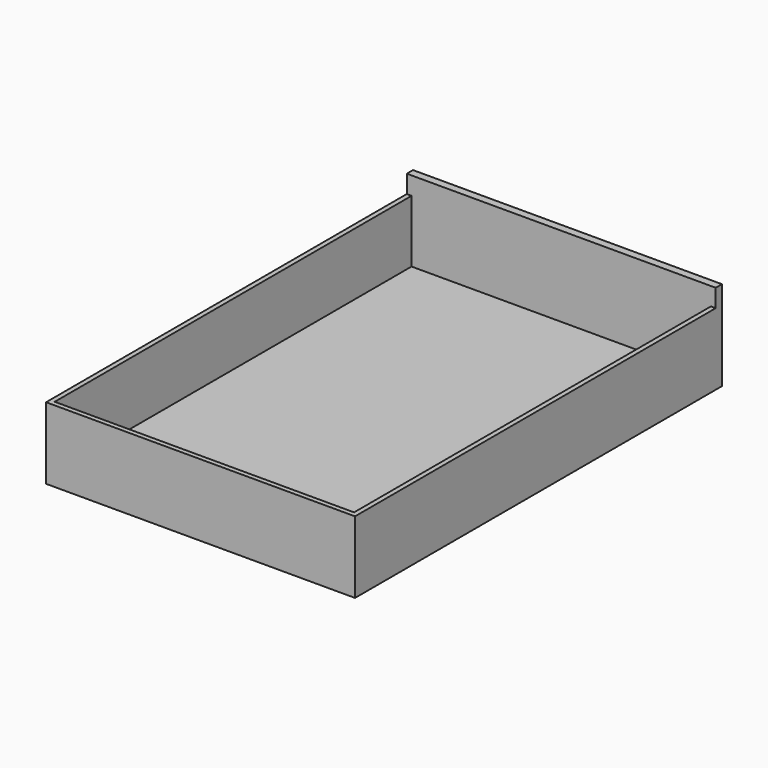
from build123d import *

# Parameters (mm, degrees)
F0_W     = 103.2
F0_H     = 153.2
F0_W_2   = 100
F0_H_2   = 150
F1_DEPTH = 24
F2_W     = 100
F2_H     = 150
F3_DEPTH = 3.2
F4_W     = 103.2
F4_H     = 2.6
F5_DEPTH = 30


with BuildPart() as f1:
    # F0 (on Top) → F1 (new body)
    with BuildSketch(Plane.XY):
        Rectangle(F0_W, F0_H)
        Rectangle(F0_W_2, F0_H_2, mode=Mode.SUBTRACT)
    extrude(amount=F1_DEPTH)

    # F2 (on Top) → F3 (join)
    with BuildSketch(Plane.XY):
        Rectangle(F2_W, F2_H)
    extrude(amount=F3_DEPTH)

    # F4 (on Top) → F5 (join)
    with BuildSketch(Plane.XY):
        with Locations((0, 75.3)):
            Rectangle(F4_W, F4_H)
    extrude(amount=F5_DEPTH)


solid = f1.part
